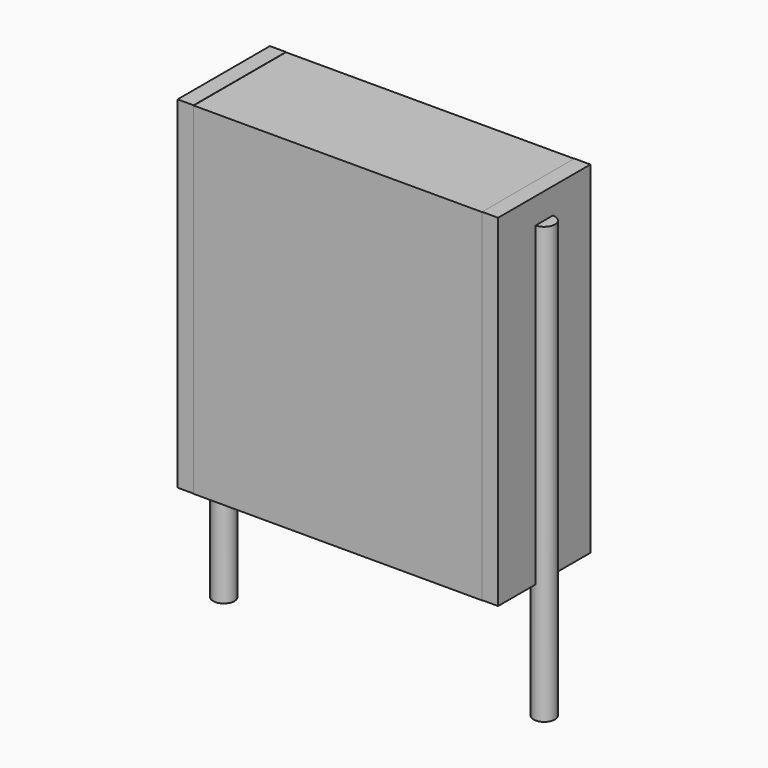
from build123d import *

# Parameters (mm, degrees)
SKETCH_W          = 6.75
SKETCH_H          = 2.7
PAD_DEPTH         = 8
SKETCH001_R       = 0.25
PAD001_DEPTH      = 7
PAD001_DEPTH_BACK = 3.2
SKETCH002_W       = 0.375
SKETCH002_H       = 2.7
PAD002_DEPTH      = 8


with BuildPart() as pad:
    # Sketch → Pad (new body)
    with BuildSketch(Plane.XY.offset(0.1)):
        with Locations((3.75, 0)):
            Rectangle(SKETCH_W, SKETCH_H)
    extrude(amount=PAD_DEPTH)


with BuildPart() as pad001:
    # Sketch001 → Pad001 (new body, two sides)
    with BuildSketch(Plane.XY.offset(0.5)) as pad001_sk:
        Circle(SKETCH001_R)
        with Locations((7.5, 0)):
            Circle(SKETCH001_R)
    extrude(amount=PAD001_DEPTH)
    extrude(pad001_sk.sketch, amount=-PAD001_DEPTH_BACK)


with BuildPart() as pad002:
    # Sketch002 → Pad002 (new body)
    with BuildSketch(Plane.XY.offset(0.105)):
        with Locations((0.1875, 0)):
            Rectangle(SKETCH002_W, SKETCH002_H)
        with Locations((7.3125, 0)):
            Rectangle(SKETCH002_W, SKETCH002_H)
    extrude(amount=PAD002_DEPTH)


solid = Compound([pad.part, pad001.part, pad002.part])
